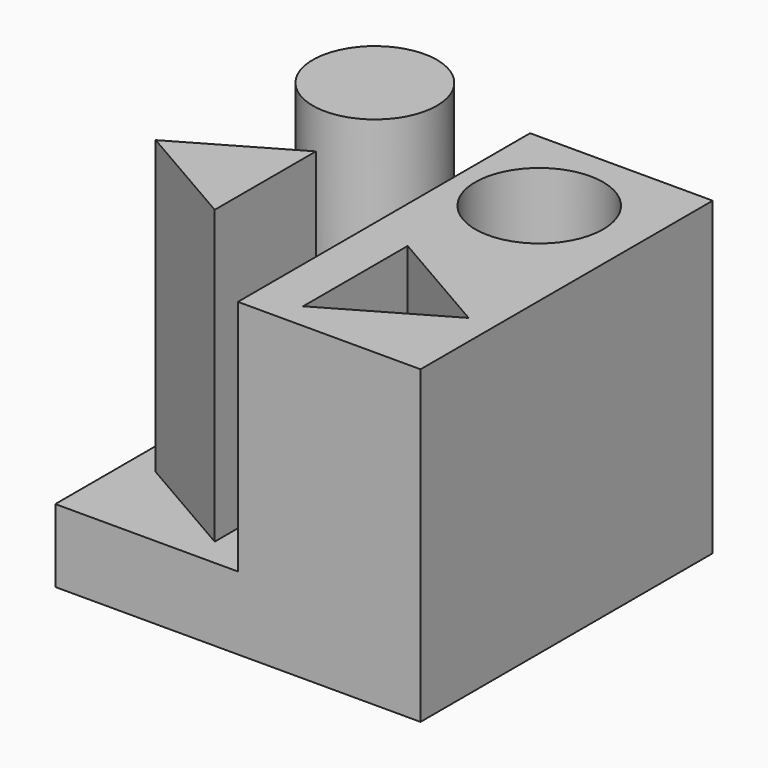
from build123d import *

# Parameters (mm, degrees)
SKETCH_W     = 20
SKETCH_H     = 20
PAD_DEPTH    = 4
SKETCH001_W  = 10
SKETCH001_H  = 20
PAD001_DEPTH = 13
SKETCH002_R  = 3.4
PAD002_DEPTH = 16
SKETCH003_R  = 3.5
POCKET_DEPTH = 16.2


with BuildPart() as part:
    # Sketch → Pad (new body)
    with BuildSketch(Plane.XY):
        Rectangle(SKETCH_W, SKETCH_H)
    extrude(amount=PAD_DEPTH)

    # Sketch001 → Pad001 (new body)
    with BuildSketch(Plane.XY.offset(4)):
        with Locations((5, 0)):
            Rectangle(SKETCH001_W, SKETCH001_H)
    extrude(amount=PAD001_DEPTH)

    # Sketch002 → Pad002 (new body)
    with BuildSketch(Plane.XY.offset(4)):
        with Locations((-4.5, 5)):
            Circle(SKETCH002_R)
        Polygon((-8.5, -5), (-2.5, -1.535898), (-2.5, -8.464102), align=None)
    extrude(amount=PAD002_DEPTH)

    # Sketch003 → Pocket (cut)
    with BuildSketch(Plane.XY.offset(17)):
        with Locations((4.5, 5)):
            Circle(SKETCH003_R)
        Polygon((2.433333, -1.420428), (2.433333, -8.579572), (8.633333, -5), align=None)
    extrude(amount=-POCKET_DEPTH, mode=Mode.SUBTRACT)


solid = part.part
